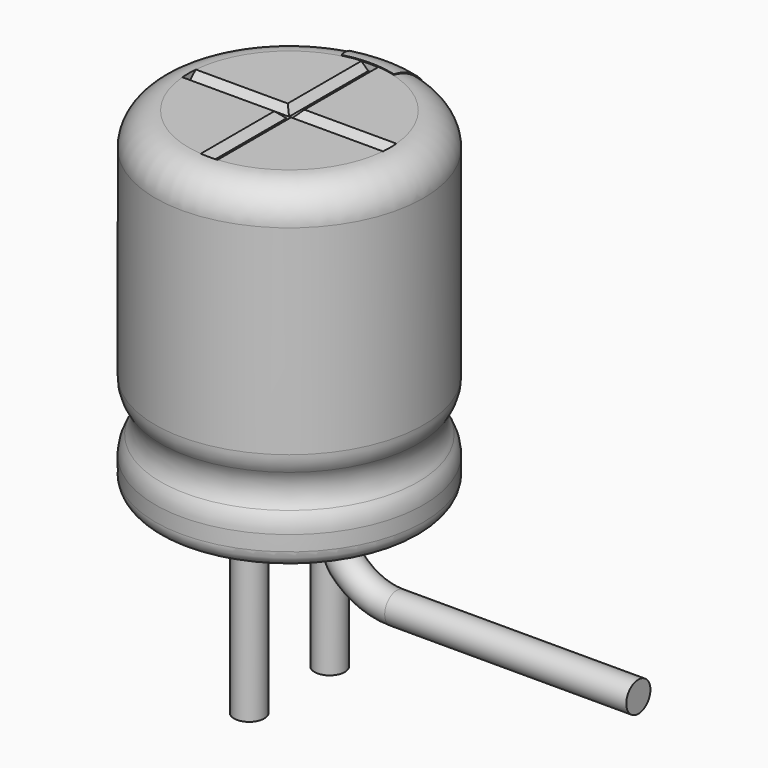
from build123d import *

# Parameters (mm, degrees)
SKETCH003_R         = 0.225
REVOLUTION001_ANGLE = -30
SKETCH015_W         = 0.25
SKETCH015_H         = 0.5
POCKET002_DEPTH     = 2.011
LINEARPATTERN_COUNT = 3
LINEARPATTERN_PITCH = 1.25
SKETCH010_R         = 0.225
PAD002_DEPTH        = 2.6
SKETCH013_R         = 1.5
PAD_DEPTH           = 0.5
POCKET001_DEPTH     = 1.5
POLARPATTERN_COUNT  = 3
POLARPATTERN_ANGLE  = 180
SKETCH012_R         = 1.5
POCKET_DEPTH        = 0.5


with BuildPart() as obj1:
    # AdditivePipe: sweep along a path in Sketch004
    with BuildLine(Plane.XZ) as additivepipe_path:
        Line((0, 0), (0, -0.5))
        ThreePointArc((0, -0.5), (0.292893, -1.207107), (1, -1.5))
        Line((1, -1.5), (4.6, -1.5))
    # Sketch003 (on ShapeBinder) → AdditivePipe (sweep)
    with BuildSketch(Plane(origin=(0, 0, 0), x_dir=(1, 0, 0), z_dir=(0, 0, -1))):
        with Locations((0, 0.75)):
            Circle(SKETCH003_R)
    sweep(path=additivepipe_path.line)


with BuildPart() as obj1_1:
    # Body003 placement: moved
    add(obj1.part.moved(Location((0, 1.5, 0))))


with BuildPart() as polaritymarking:
    # Sketch005 → Revolution001 (revolve)
    with BuildSketch(Plane(origin=(0, 0, 0), x_dir=(-0.258819, 0.965926, 0), z_dir=(0.965926, 0.258819, 0))):
        with BuildLine():
            Line((1.51, 0.25), (1.51, 5.01))
            ThreePointArc((1.51, 5.01), (1.863553, 4.863553), (2.01, 4.51))
            Line((2.01, 4.51), (2.01, 1.523941))
            ThreePointArc((2.01, 1.523941), (1.989134, 1.381006), (1.928278, 1.25))
            ThreePointArc((1.928278, 1.25), (1.853698, 1), (1.928278, 0.75))
            ThreePointArc((1.928278, 0.75), (1.989134, 0.618994), (2.01, 0.476059))
            Line((2.01, 0.476059), (2.01, 0.25))
            ThreePointArc((2.01, 0.25), (1.76, 0), (1.51, 0.25))
        make_face()
    revolve(axis=Axis((0, 0, 0), (0, 0, 1)), revolution_arc=REVOLUTION001_ANGLE)

    # Sketch015 → Pocket002 (cut, through all)
    with BuildSketch(Plane.XZ):
        with Locations((0, 1.75)):
            Rectangle(SKETCH015_W, SKETCH015_H)
    pocket002 = extrude(amount=-POCKET002_DEPTH, mode=Mode.SUBTRACT)

    # LinearPattern: Pocket002 ×3
    with Locations(*[(0, 0, i * LINEARPATTERN_PITCH) for i in range(1, LINEARPATTERN_COUNT)]):
        add(pocket002, mode=Mode.SUBTRACT)


with BuildPart() as obj2:
    # Sketch010 → Pad002 (new body)
    with BuildSketch(Plane(origin=(0, 0.75, 0), x_dir=(1, 0, 0), z_dir=(0, 0, 1))):
        Circle(SKETCH010_R)
    extrude(amount=-PAD002_DEPTH)


with BuildPart() as obj3:
    # Body007 base: copy of obj2
    add(obj2.part)


with BuildPart() as obj3_1:
    # Body007 placement: moved
    add(obj3.part.moved(Location((0, -1.5, 0))))


with BuildPart() as housingtop:
    # Sketch013 (on ShapeBinder) → Pad (new body)
    with BuildSketch(Plane.XY.offset(4.5)):
        Circle(SKETCH013_R)
    extrude(amount=PAD_DEPTH)

    # Sketch014 → Pocket001 (cut, symmetric)
    with BuildSketch(Plane.XZ):
        Polygon((-0.125, 5), (0.125, 5), (0.025, 4.9), (-0.025, 4.9), align=None)
    pocket001 = extrude(amount=POCKET001_DEPTH, both=True, mode=Mode.SUBTRACT)

    # PolarPattern: Pocket001 ×3 about axis
    polarpattern_axis = Axis((0, 0, 0), (0, 0, 1))
    for i in range(1, POLARPATTERN_COUNT):
        add(pocket001.rotate(polarpattern_axis, i * POLARPATTERN_ANGLE / (POLARPATTERN_COUNT - 1)), mode=Mode.SUBTRACT)


with BuildPart() as fusion:
    # Sketch → Revolution (revolve)
    with BuildSketch(Plane.XZ):
        with BuildLine():
            Line((0, 5), (1.5, 5))
            ThreePointArc((2, 4.5), (1.853553, 4.853553), (1.5, 5))
            Line((2, 4.5), (2, 1.523941))
            ThreePointArc((1.918278, 1.25), (1.979134, 1.381006), (2, 1.523941))
            ThreePointArc((1.918278, 1.25), (1.843698, 1), (1.918278, 0.75))
            ThreePointArc((2, 0.476059), (1.979134, 0.618994), (1.918278, 0.75))
            Line((2, 0.476059), (2, 0.25))
            ThreePointArc((1.75, 0), (1.926777, 0.073223), (2, 0.25))
            Line((0, 0), (1.75, 0))
            Line((0, 5), (0, 0))
        make_face()
    revolve(axis=Axis((0, 0, 0), (0, 0, 1)))

    # Sketch012 → Pocket (cut)
    with BuildSketch(Plane.XY.offset(5)):
        Circle(SKETCH012_R)
    extrude(amount=-POCKET_DEPTH, mode=Mode.SUBTRACT)

    # Fusion: union PolarityMarking, obj2, obj3, HousingTop
    add(polaritymarking.part)
    add(obj2.part)
    add(obj3_1.part)
    add(housingtop.part)


solid = Compound([obj1_1.part, fusion.part])
